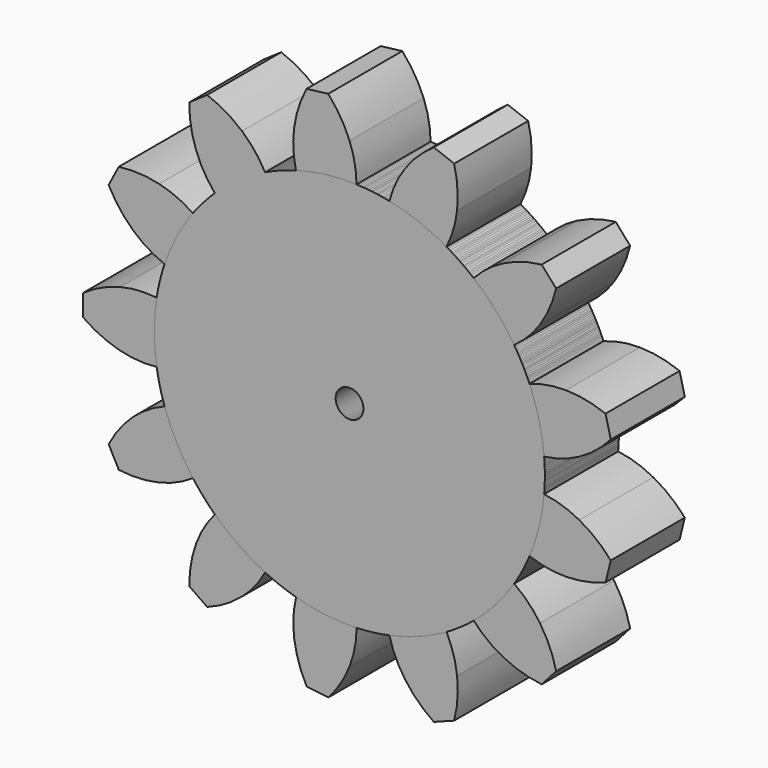
from build123d import *

# Parameters (mm, degrees)
F0_R     = 1.905
F1_DEPTH = 12.7
F2_COUNT = 13


with BuildPart() as f1:
    # F0 (on Front) → F1 (new body)
    with BuildSketch(Plane.XZ):
        with BuildLine():
            ThreePointArc((-7.348284, 25.769787), (-16.142603, -21.389146), (26.797, 0))
            ThreePointArc((26.797, 0), (19.285172, 18.605412), (0.961171, 26.779757))
            ThreePointArc((0.961171, 26.779757), (-3.233236, 26.601229), (-7.348284, 25.769787))
        make_face()
        Circle(F0_R, mode=Mode.SUBTRACT)
        with BuildLine():
            ThreePointArc((-7.348284, 25.769787), (-3.233236, 26.601229), (0.961171, 26.779757))
            ThreePointArc((0.961171, 26.779757), (0.709512, 29.309149), (0, 31.75))
            ThreePointArc((0, 31.75), (-1.249395, 34.23748), (-2.927131, 36.458685))
            Line((-2.927131, 36.458685), (-5.891784, 36.098347))
            ThreePointArc((-5.891784, 36.098347), (-6.988581, 33.539913), (-7.605722, 30.825566))
            ThreePointArc((-7.605722, 30.825566), (-7.709869, 28.285819), (-7.348284, 25.769787))
        make_face()
    extrude(amount=F1_DEPTH)


with BuildPart() as f2_1:
    # F2: instance of F1
    add(f1.part.rotate(Axis((0, 0, 0), (0, 1, 0)), 1 * 360 / F2_COUNT))


with BuildPart() as f2_2:
    # F2: instance of F1
    add(f1.part.rotate(Axis((0, 0, 0), (0, 1, 0)), 2 * 360 / F2_COUNT))


with BuildPart() as f2_3:
    # F2: instance of F1
    add(f1.part.rotate(Axis((0, 0, 0), (0, 1, 0)), 3 * 360 / F2_COUNT))


with BuildPart() as f2_4:
    # F2: instance of F1
    add(f1.part.rotate(Axis((0, 0, 0), (0, 1, 0)), 4 * 360 / F2_COUNT))


with BuildPart() as f2_5:
    # F2: instance of F1
    add(f1.part.rotate(Axis((0, 0, 0), (0, 1, 0)), 5 * 360 / F2_COUNT))


with BuildPart() as f2_6:
    # F2: instance of F1
    add(f1.part.rotate(Axis((0, 0, 0), (0, 1, 0)), 6 * 360 / F2_COUNT))


with BuildPart() as f2_7:
    # F2: instance of F1
    add(f1.part.rotate(Axis((0, 0, 0), (0, 1, 0)), 7 * 360 / F2_COUNT))


with BuildPart() as f2_8:
    # F2: instance of F1
    add(f1.part.rotate(Axis((0, 0, 0), (0, 1, 0)), 8 * 360 / F2_COUNT))


with BuildPart() as f2_9:
    # F2: instance of F1
    add(f1.part.rotate(Axis((0, 0, 0), (0, 1, 0)), 9 * 360 / F2_COUNT))


with BuildPart() as f2_10:
    # F2: instance of F1
    add(f1.part.rotate(Axis((0, 0, 0), (0, 1, 0)), 10 * 360 / F2_COUNT))


with BuildPart() as f2_11:
    # F2: instance of F1
    add(f1.part.rotate(Axis((0, 0, 0), (0, 1, 0)), 11 * 360 / F2_COUNT))


with BuildPart() as f2_12:
    # F2: instance of F1
    add(f1.part.rotate(Axis((0, 0, 0), (0, 1, 0)), 12 * 360 / F2_COUNT))


solid = Compound([f1.part, f2_1.part, f2_2.part, f2_3.part, f2_4.part, f2_5.part, f2_6.part, f2_7.part, f2_8.part, f2_9.part, f2_10.part, f2_11.part, f2_12.part])
